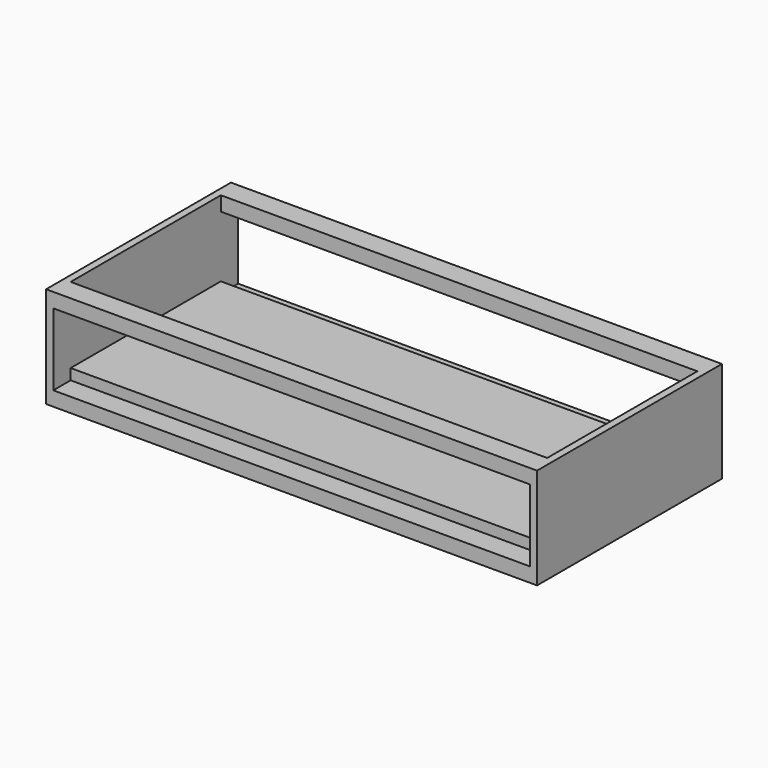
from build123d import *

# Parameters (mm, degrees)
F0_W     = 431.8
F0_H     = 203.2
F1_DEPTH = 88.9
F2_W     = 419.1
F2_H     = 53.975
F3_DEPTH = 203.2
F4_W     = 419.1
F4_H     = 165.1
F5_DEPTH = 12.7
F6_W     = 419.1
F6_H     = 9.525
F7_DEPTH = 19.05
F8_W     = 419.1
F8_H     = 9.525
F9_DEPTH = 19.05


with BuildPart() as f1:
    # F0 (on Top) → F1 (new body)
    with BuildSketch(Plane.XY):
        with Locations((40.765872, 10.780569)):
            Rectangle(F0_W, F0_H)
    extrude(amount=F1_DEPTH)

    # F2 (on face) → F3 (cut, through all)
    with BuildSketch(Plane(origin=(0, 112.380569, 0), x_dir=(-1, 0, 0), z_dir=(0, 1, 0))):
        with Locations((-40.765872, 49.2125)):
            Rectangle(F2_W, F2_H)
    extrude(amount=-F3_DEPTH, mode=Mode.SUBTRACT)

    # F4 (on face) → F5 (cut, through all)
    with BuildSketch(Plane.XY.offset(88.9)):
        with Locations((40.765872, 10.780569)):
            Rectangle(F4_W, F4_H)
    extrude(amount=-F5_DEPTH, mode=Mode.SUBTRACT)

    # F6 (on face) → F7 (cut)
    with BuildSketch(Plane(origin=(0, 112.380569, 0), x_dir=(-1, 0, 0), z_dir=(0, 1, 0))):
        with Locations((-40.765872, 17.4625)):
            Rectangle(F6_W, F6_H)
    extrude(amount=-F7_DEPTH, mode=Mode.SUBTRACT)

    # F8 (on face) → F9 (cut)
    with BuildSketch(Plane.XZ.offset(90.819431)):
        with Locations((40.765872, 17.4625)):
            Rectangle(F8_W, F8_H)
    extrude(amount=-F9_DEPTH, mode=Mode.SUBTRACT)


solid = f1.part
